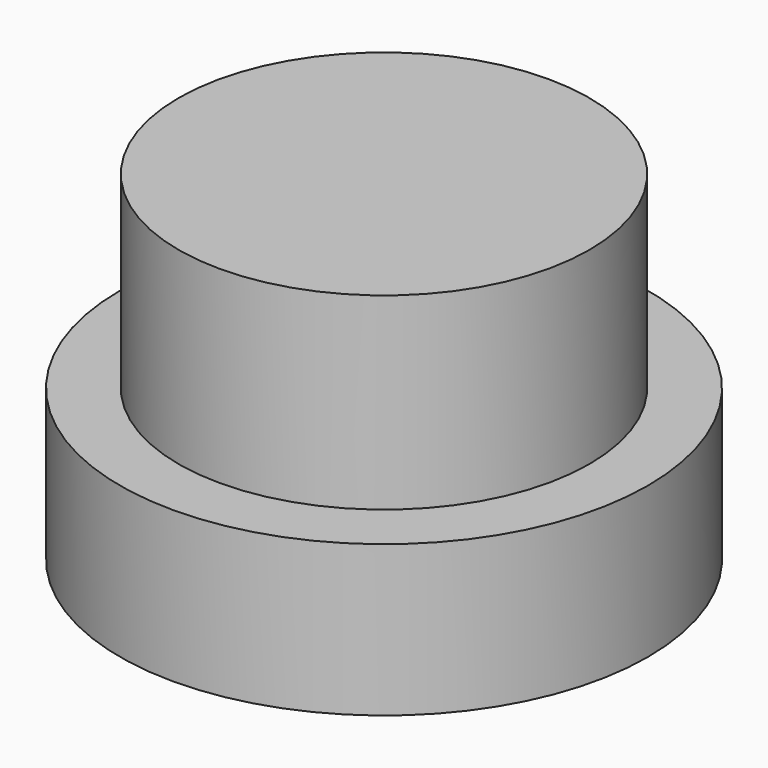
from build123d import *

# Parameters (mm, degrees)
CYLINDER001_R            = 7
CYLINDER001_DEPTH        = 4
CYLINDER_R               = 5.45
CYLINDER_DEPTH           = 5
CLONE018_PLACEMENT_ANGLE = 180


with BuildPart() as knob002:
    # Cylinder001 → Cylinder001 (new body)
    with BuildSketch(Plane(origin=(7, 0, -5), x_dir=(1, 0, 0), z_dir=(0, 0, 1))):
        Circle(CYLINDER001_R)
    extrude(amount=CYLINDER001_DEPTH)


with BuildPart() as knob005:
    # Cylinder → Cylinder (new body)
    with BuildSketch(Plane(origin=(7, 0, -10), x_dir=(1, 0, 0), z_dir=(0, 0, 1))):
        Circle(CYLINDER_R)
    extrude(amount=CYLINDER_DEPTH)

    # Fusion007: union knob002
    add(knob002.part)


with BuildPart() as knob005_1:
    # Clone018 placement: moved
    add(knob005.part.moved(Location((11, -50, 18))).rotate(Axis((11, -50, 18), (1, 0, 0)), CLONE018_PLACEMENT_ANGLE))


with BuildPart() as knob005_2:
    # Clone019 placement: moved
    add(knob005_1.part.moved(Location((10, 12, 0))))


solid = knob005_2.part
